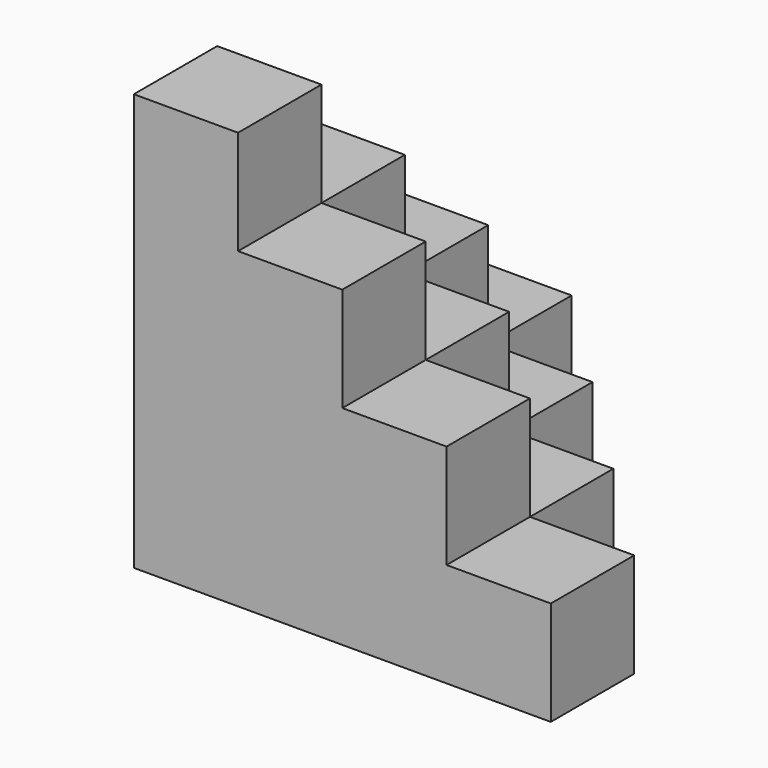
from build123d import *

# Parameters (mm, degrees)
F1_DEPTH = 6.35
F3_DEPTH = 6.35
F5_DEPTH = 6.35
F6_W     = 6.35
F6_H     = 6.35
F7_DEPTH = 6.35


with BuildPart() as f1:
    # F0 (on Top) → F1 (new body)
    with BuildSketch(Plane.XY):
        Polygon((0, 0), (0, -25.4), (25.4, -25.4), (25.4, -19.05), (19.05, -19.05), (19.05, -12.7), (12.7, -12.7), (12.7, -6.35), (6.35, -6.35), (6.35, 0), align=None)
    extrude(amount=F1_DEPTH)

    # F2 (on face) → F3 (join)
    with BuildSketch(Plane.XY.offset(6.35)):
        Polygon((6.35, -6.35), (0, -6.35), (0, -25.4), (19.05, -25.4), (19.05, -19.05), (12.7, -19.05), (12.7, -12.7), (6.35, -12.7), align=None)
    extrude(amount=F3_DEPTH)

    # F4 (on face) → F5 (join)
    with BuildSketch(Plane.XY.offset(12.7)):
        Polygon((6.35, -12.7), (0, -12.7), (0, -25.4), (12.7, -25.4), (12.7, -19.05), (6.35, -19.05), align=None)
    extrude(amount=F5_DEPTH)

    # F6 (on face) → F7 (join)
    with BuildSketch(Plane.XY.offset(19.05)):
        with Locations((3.175, -22.225)):
            Rectangle(F6_W, F6_H)
    extrude(amount=F7_DEPTH)


solid = f1.part
